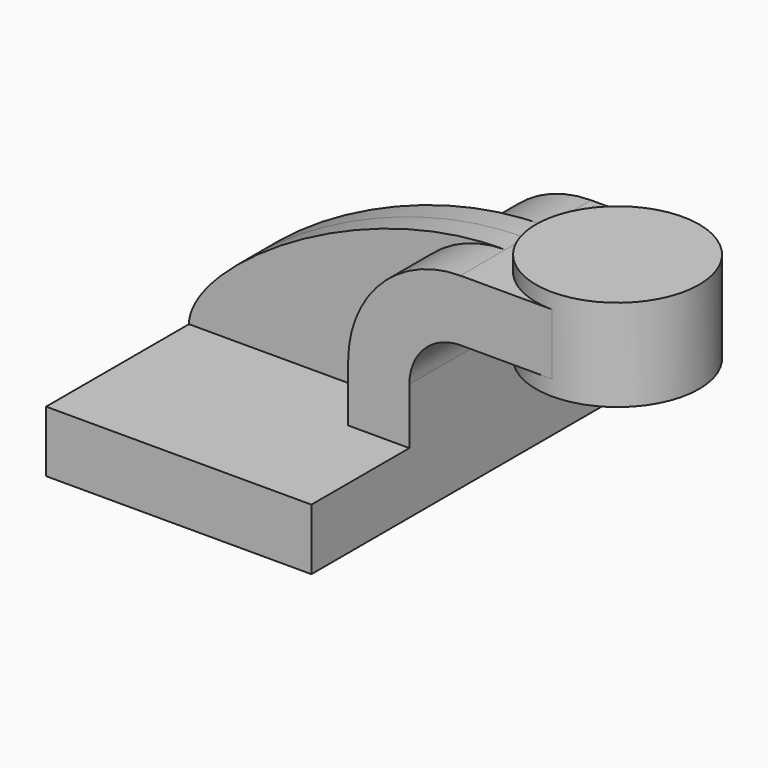
from build123d import *

# Parameters (mm, degrees)
F1_DEPTH = 63.5
F0_W     = 25.4
F0_H     = 19.05
F2_DEPTH = 25.4
F3_DEPTH = 7.9375


with BuildPart() as f1:
    # F0 (on Front) → F1 (new body, symmetric)
    with BuildSketch(Plane.XZ):
        Polygon((41.275, -9.525), (41.275, 9.525), (22.225, 9.525), (-41.275, 9.525), (-41.275, -9.525), align=None)
    extrude(amount=F1_DEPTH, both=True)

    # F0 (on Front) → F2 (join, symmetric)
    with BuildSketch(Plane.XZ):
        with BuildLine():
            Line((22.225, 9.525), (41.275, 9.525))
            Line((41.275, 9.525), (41.275, 27.0002))
            ThreePointArc((41.275, 27.0002), (45.9246798487, 38.2255201513), (57.15, 42.8752))
            Line((57.15, 42.8752), (60.325, 42.8752))
            Line((60.325, 42.8752), (60.325, 61.9252))
            Line((60.325, 61.9252), (57.15, 61.9252))
            ThreePointArc((57.15, 61.9252), (32.4542956671, 51.6959043329), (22.225, 27.0002))
            Line((22.225, 27.0002), (22.225, 9.525))
        make_face()
        with Locations((73.025, 52.4002)):
            Rectangle(F0_W, F0_H)
    extrude(amount=F2_DEPTH, both=True)

    # F0 (on Front) → F3 (join, symmetric)
    with BuildSketch(Plane.XZ):
        with BuildLine():
            Line((-41.275, 9.525), (22.225, 9.525))
            Line((22.225, 9.525), (22.225, 27.0002))
            ThreePointArc((22.225, 27.0002), (32.4542956671, 51.6959043329), (57.15, 61.9252))
            add(Edge.make_bspline(
                [(-41.275, 9.525), (-41.1306880414, 26.5983454883), (10.3886332363, 62.302429229), (57.15, 61.9252)],
                knots=[0, 0, 0, 0, 111.5045361635, 111.5045361635, 111.5045361635, 111.5045361635], degree=3))
        make_face()
    extrude(amount=F3_DEPTH, both=True)

    # F0 (on Front) → F4 (revolve)
    with BuildSketch(Plane.XZ):
        Polygon((85.725, 61.9252), (85.725, 42.8752), (85.725, 38.1), (111.125, 38.1), (111.125, 66.675), (85.725, 66.675), align=None)
    revolve(axis=Axis((85.725, 0, 52.3875), (0, 0, -1)))


solid = f1.part
